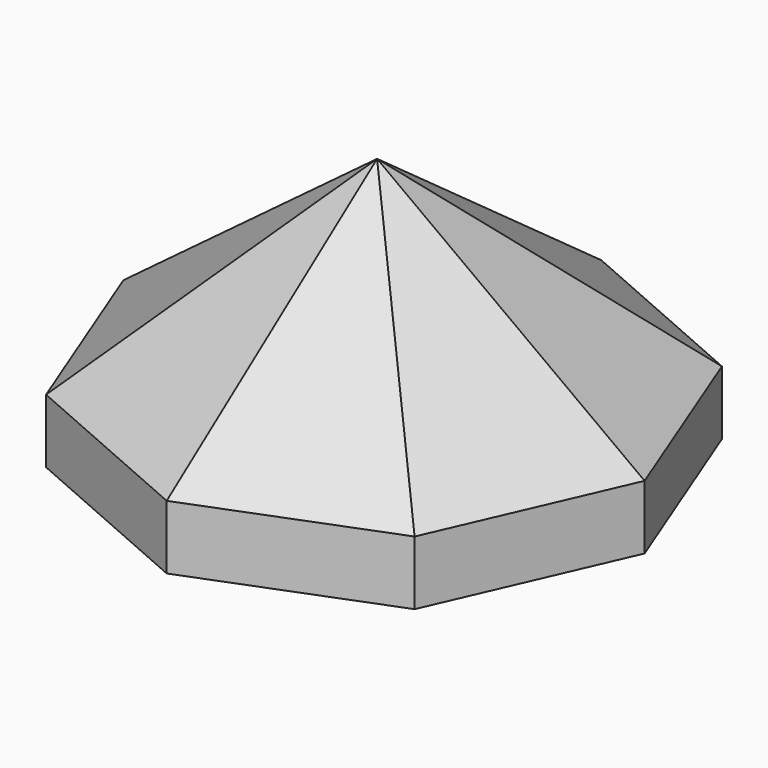
from build123d import *

# Parameters (mm, degrees)
F1_DEPTH = 25


with BuildPart() as f1:
    # F0 (on Top) → F1 (new body)
    with BuildSketch(Plane.XY):
        Polygon((-77.77143, -59.354793), (-5.184364, -91.164492), (68.635296, -62.330539), (100.444995, 10.256527), (71.611042, 84.076187), (-0.976024, 115.885885), (-74.795684, 87.051932), (-106.605383, 14.464867), align=None)
    extrude(amount=F1_DEPTH)

    # F1_face (on face) → F4 section 0
    with BuildSketch(Plane(origin=(-3.080194, 12.360697, 25), x_dir=(1, 0, 0), z_dir=(0, 0, 1)), mode=Mode.PRIVATE) as f4_s0:
        Polygon((-103.525189, 2.10417), (-74.691236, -71.71549), (-2.10417, -103.525189), (71.71549, -74.691236), (103.525189, -2.10417), (74.691236, 71.71549), (2.10417, 103.525189), (-71.71549, 74.691236), align=None)
    loft([Vertex(-6.24818, 12.954692, 100), f4_s0.sketch])


solid = f1.part
